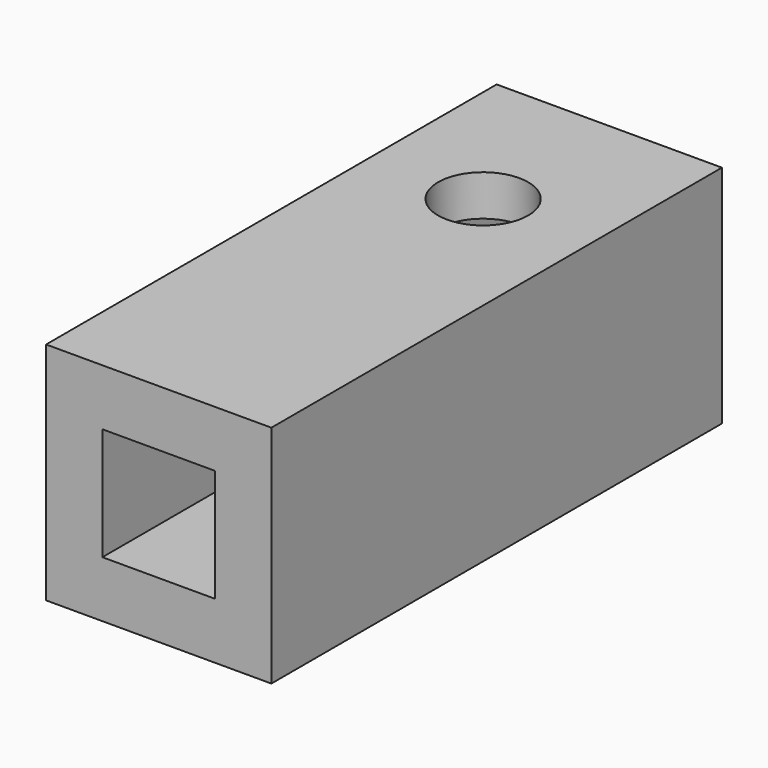
from build123d import *

# Parameters (mm, degrees)
F0_W     = 10
F0_H     = 10
F1_DEPTH = 25
F2_W     = 5
F2_H     = 5
F3_DEPTH = 12.5
F5_DEPTH = 12.5
F6_R     = 2
F7_DEPTH = 5


with BuildPart() as f1:
    # F0 (on Front) → F1 (new body)
    with BuildSketch(Plane.XZ):
        Rectangle(F0_W, F0_H)
    extrude(amount=F1_DEPTH)

    # F2 (on face) → F3 (cut)
    with BuildSketch(Plane.XZ.offset(25)):
        Rectangle(F2_W, F2_H)
    extrude(amount=-F3_DEPTH, mode=Mode.SUBTRACT)

    # F4 (on face) → F5 (cut)
    with BuildSketch(Plane(origin=(0, 0, 0), x_dir=(-1, 0, 0), z_dir=(0, 1, 0))):
        with BuildLine():
            Line((-2.2017970471, 1.1840987136), (2.2017970471, 1.1840987136))
            ThreePointArc((2.2017970471, 1.1840987136), (0, 2.5), (-2.2017970471, 1.1840987136))
        make_face()
        with BuildLine():
            ThreePointArc((-2.2017970471, 1.1840987136), (-0.6105355773, -2.4243032626), (2.5, 0))
            ThreePointArc((2.5, 0), (2.4243032626, 0.6105355773), (2.2017970471, 1.1840987136))
            Line((2.2017970471, 1.1840987136), (-2.2017970471, 1.1840987136))
        make_face()
        with BuildLine():
            ThreePointArc((-2.2017970471, 1.1840987136), (0, 2.5), (2.2017970471, 1.1840987136))
            Line((2.2017970471, 1.1840987136), (2.75, 1.1840987136))
            Line((2.75, 1.1840987136), (2.75, 3.1840987136))
            Line((2.75, 3.1840987136), (-2.75, 3.1840987136))
            Line((-2.75, 3.1840987136), (-2.75, 1.1840987136))
            Line((-2.75, 1.1840987136), (-2.2017970471, 1.1840987136))
        make_face()
    extrude(amount=-F5_DEPTH, mode=Mode.SUBTRACT)

    # F6 (on face) → F7 (cut)
    with BuildSketch(Plane.XY.offset(5)):
        with Locations((0, -7)):
            Circle(F6_R)
    extrude(amount=-F7_DEPTH, mode=Mode.SUBTRACT)


solid = f1.part
